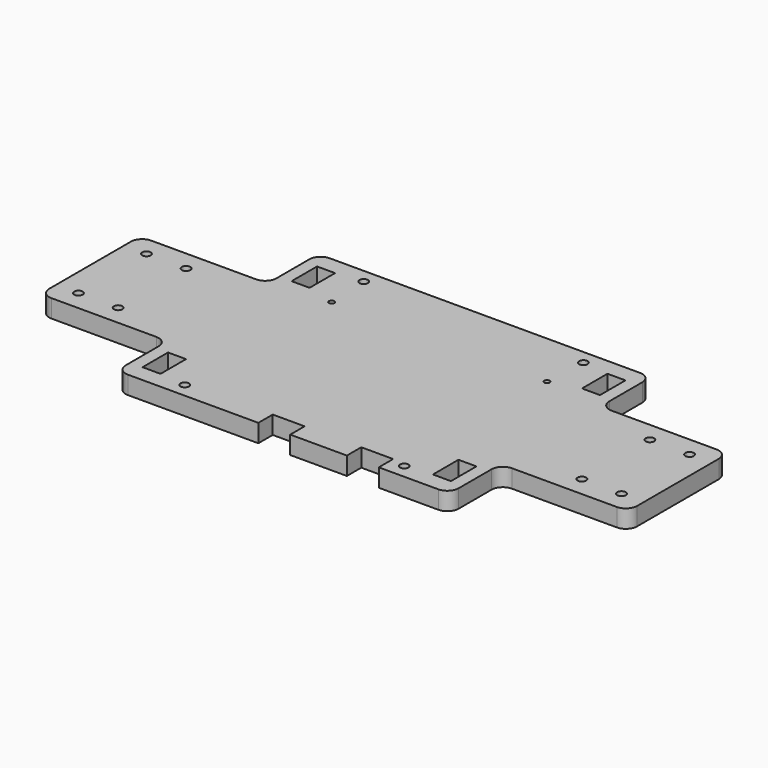
from build123d import *

# Parameters (mm, degrees)
F0_W     = 87.5
F0_H     = 13
F0_R     = 1.5
F0_W_2   = 6.35
F0_H_2   = 11.25
F0_H_3   = 63
F0_R_2   = 0.95
F0_W_3   = 20
F0_H_4   = 44
F1_DEPTH = 6.35


with BuildPart() as f1:
    # F0 (on Top) → F1 (new body)
    with BuildSketch(Plane.XY):
        with Locations((0, 38)):
            Rectangle(F0_W, F0_H)
        with Locations((-38.75, 39.5)):
            Circle(F0_R, mode=Mode.SUBTRACT)
        with Locations((38.75, 39.5)):
            Circle(F0_R, mode=Mode.SUBTRACT)
        Polygon((43.75, -31.5), (-43.75, -31.5), (-43.75, -44.5), (-8.75, -44.5), (-8.75, -38.15), (2.5, -38.15), (2.5, -44.5), (22.5, -44.5), (22.5, -38.15), (33.75, -38.15), (33.75, -44.5), (43.75, -44.5), align=None)
        with Locations((-38.75, -39.5)):
            Circle(F0_R, mode=Mode.SUBTRACT)
        with Locations((38.75, -39.5)):
            Circle(F0_R, mode=Mode.SUBTRACT)
        with BuildLine():
            Line((-43.75, 44.5), (-54.75, 44.5))
            ThreePointArc((-54.75, 44.5), (-57.578427, 43.328427), (-58.75, 40.5))
            Line((-58.75, 40.5), (-58.75, 26))
            ThreePointArc((-58.75, 26), (-59.921573, 23.171573), (-62.75, 22))
            Line((-62.75, 22), (-78.75, 22))
            Line((-78.75, 22), (-78.75, -22))
            Line((-78.75, -22), (-62.75, -22))
            ThreePointArc((-62.75, -22), (-59.921573, -23.171573), (-58.75, -26))
            Line((-58.75, -26), (-58.75, -40.5))
            ThreePointArc((-58.75, -40.5), (-57.578427, -43.328427), (-54.75, -44.5))
            Line((-54.75, -44.5), (-43.75, -44.5))
            Line((-43.75, -44.5), (-43.75, -31.5))
            Line((-43.75, -31.5), (-43.75, 31.5))
            Line((-43.75, 31.5), (-43.75, 44.5))
        make_face()
        with Locations((-51.25, -32.875)):
            Rectangle(F0_W_2, F0_H_2, mode=Mode.SUBTRACT)
        with Locations((-51.25, 32.875)):
            Rectangle(F0_W_2, F0_H_2, mode=Mode.SUBTRACT)
        with BuildLine():
            Line((54.75, 44.5), (43.75, 44.5))
            Line((43.75, 44.5), (43.75, 31.5))
            Line((43.75, 31.5), (43.75, -31.5))
            Line((43.75, -31.5), (43.75, -44.5))
            Line((43.75, -44.5), (54.75, -44.5))
            ThreePointArc((54.75, -44.5), (57.578427, -43.328427), (58.75, -40.5))
            Line((58.75, -40.5), (58.75, -26))
            ThreePointArc((58.75, -26), (59.921573, -23.171573), (62.75, -22))
            Line((62.75, -22), (78.75, -22))
            Line((78.75, -22), (78.75, 22))
            Line((78.75, 22), (62.75, 22))
            ThreePointArc((62.75, 22), (59.921573, 23.171573), (58.75, 26))
            Line((58.75, 26), (58.75, 40.5))
            ThreePointArc((58.75, 40.5), (57.578427, 43.328427), (54.75, 44.5))
        make_face()
        with Locations((51.25, -32.875)):
            Rectangle(F0_W_2, F0_H_2, mode=Mode.SUBTRACT)
        with Locations((51.25, 32.875)):
            Rectangle(F0_W_2, F0_H_2, mode=Mode.SUBTRACT)
        Rectangle(F0_W, F0_H_3)
        with Locations((-38, 24.394)):
            Circle(F0_R_2, mode=Mode.SUBTRACT)
        with Locations((38, 24.394)):
            Circle(F0_R_2, mode=Mode.SUBTRACT)
        with Locations((-88.75, 0)):
            Rectangle(F0_W_3, F0_H_4)
        with Locations((-95.841, -15)):
            Circle(F0_R, mode=Mode.SUBTRACT)
        with Locations((-81.841, -15)):
            Circle(F0_R, mode=Mode.SUBTRACT)
        with Locations((-95.841, 15)):
            Circle(F0_R, mode=Mode.SUBTRACT)
        with Locations((-81.841, 15)):
            Circle(F0_R, mode=Mode.SUBTRACT)
        with Locations((88.75, 0)):
            Rectangle(F0_W_3, F0_H_4)
        with Locations((81.841, -15)):
            Circle(F0_R, mode=Mode.SUBTRACT)
        with Locations((95.841, -15)):
            Circle(F0_R, mode=Mode.SUBTRACT)
        with Locations((81.841, 15)):
            Circle(F0_R, mode=Mode.SUBTRACT)
        with Locations((95.841, 15)):
            Circle(F0_R, mode=Mode.SUBTRACT)
        with BuildLine():
            Line((-98.75, -22), (-98.75, 22))
            Line((-98.75, 22), (-99.75, 22))
            ThreePointArc((-99.75, 22), (-102.578427, 20.828427), (-103.75, 18))
            Line((-103.75, 18), (-103.75, -18))
            ThreePointArc((-103.75, -18), (-102.578427, -20.828427), (-99.75, -22))
            Line((-99.75, -22), (-98.75, -22))
        make_face()
        with BuildLine():
            Line((99.75, 22), (98.75, 22))
            Line((98.75, 22), (98.75, -22))
            Line((98.75, -22), (99.75, -22))
            ThreePointArc((99.75, -22), (102.578427, -20.828427), (103.75, -18))
            Line((103.75, -18), (103.75, 18))
            ThreePointArc((103.75, 18), (102.578427, 20.828427), (99.75, 22))
        make_face()
    extrude(amount=F1_DEPTH)


solid = f1.part
